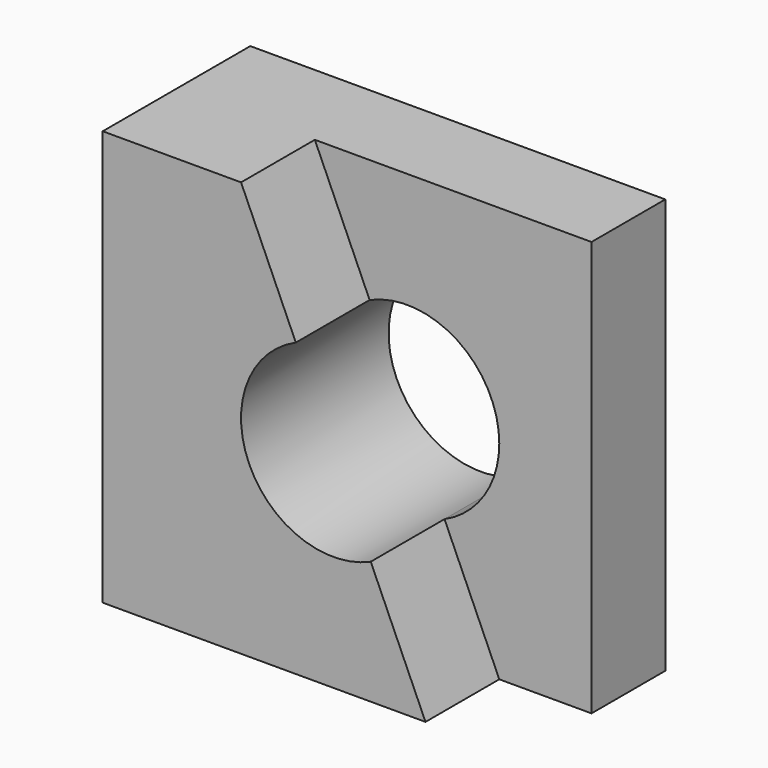
from build123d import *

# Parameters (mm, degrees)
F0_W     = 114.3
F0_H     = 114.3
F1_DEPTH = 25.4
F3_DEPTH = 25.4
F5_DEPTH = 50.801


with BuildPart() as f1:
    # F0 (on Front) → F1 (new body)
    with BuildSketch(Plane.XZ):
        with Locations((6.345086, -10.230491)):
            Rectangle(F0_W, F0_H)
    extrude(amount=F1_DEPTH)

    # F2 (on face) → F3 (join)
    with BuildSketch(Plane.XZ.offset(25.4)):
        Polygon((-12.704914, 46.919509), (-50.804914, 46.919509), (-50.804914, -67.380491), (38.095086, -67.380491), align=None)
    extrude(amount=F3_DEPTH)

    # F4 (on face) → F5 (cut, through all)
    with BuildSketch(Plane.XZ.offset(50.8)):
        with BuildLine():
            Line((23.011003, -33.441305), (2.379169, 12.980322))
            ThreePointArc((2.379169, 12.980322), (-10.515728, -20.546409), (23.011003, -33.441305))
        make_face()
        with BuildLine():
            ThreePointArc((23.011003, -33.441305), (33.992789, -24.071295), (38.095086, -10.230491))
            ThreePointArc((38.095086, -10.230491), (26.53589, 11.067211), (2.379169, 12.980322))
            Line((2.379169, 12.980322), (23.011003, -33.441305))
        make_face()
    extrude(amount=-F5_DEPTH, mode=Mode.SUBTRACT)


solid = f1.part
